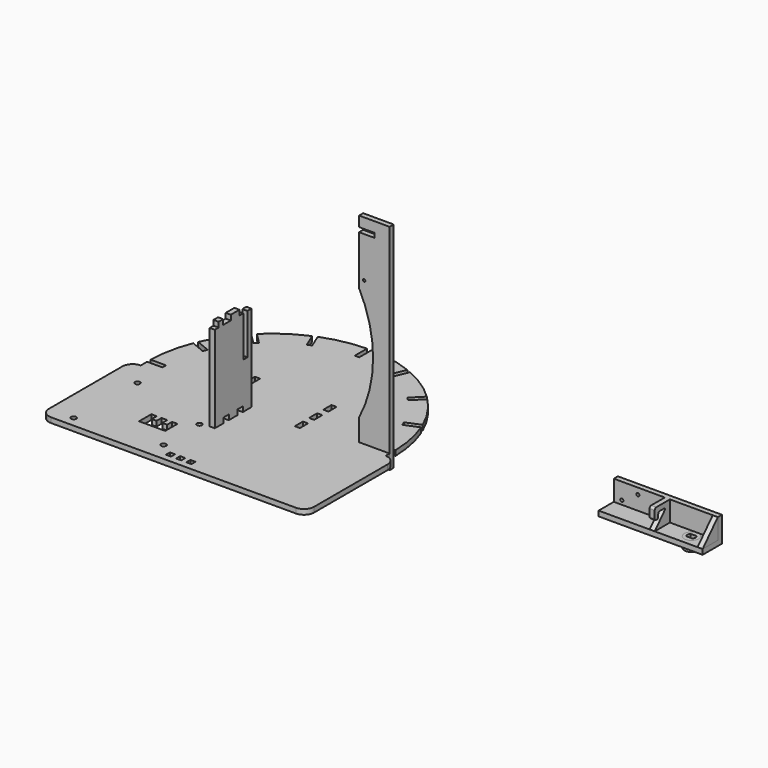
from build123d import *

# Parameters (mm, degrees)
F0_R      = 1.5875
F0_W      = 3.175
F0_H      = 3.175
F0_H_2    = 6.35
F1_DEPTH  = 3.175
F2_R      = 0.75
F3_DEPTH  = 3.175
F5_DEPTH  = 3.175
F6_R      = 4.5
F7_DEPTH  = 3.175
F6_W      = 64.77
F6_H      = 15
F8_DEPTH  = 3.175
F9_W      = 64.77
F9_H      = 3.175
F10_DEPTH = 12.7
F12_DEPTH = 3.175
F13_W     = 3.175
F13_H     = 11.825
F14_DEPTH = 12.7
F16_DEPTH = 7.6734
F17_R     = 1
F18_DEPTH = 12.7


with BuildPart() as f1:
    # F0 (on Top) → F1 (new body)
    with BuildSketch(Plane.XY):
        with BuildLine():
            Line((-66.675, -1.3890625), (-76.2, -1.3890625))
            Line((-76.2, -1.3890625), (-76.2, -6.35))
            ThreePointArc((-76.2, -6.35), (-80.6901280605, -8.2098719395), (-82.55, -12.7))
            Line((-82.55, -12.7), (-82.55, -69.85))
            ThreePointArc((-82.55, -69.85), (-80.6901280605, -74.3401280605), (-76.2, -76.2))
            Line((-76.2, -76.2), (76.1996992772, -76.2))
            ThreePointArc((76.1996992772, -76.2), (80.6898273377, -74.3401280605), (82.5496992772, -69.85))
            Line((82.5496992772, -69.85), (82.5496992772, -12.7))
            ThreePointArc((82.5496992772, -12.7), (80.6898273377, -8.2098719395), (76.1996992772, -6.35))
            Line((76.1996992772, -6.35), (76.1996992772, -1.3890625))
            Line((76.1996992772, -1.3890625), (66.6746992772, -1.3890625))
            Line((66.6746992772, -1.3890625), (66.6746992772, 1.3890625))
            Line((66.6746992772, 1.3890625), (76.1996992772, 1.3890625))
            ThreePointArc((76.1996992772, 1.3890625), (74.7479569797, 14.8683229884), (70.9309023054, 27.8770935923))
            Line((70.9309023054, 27.8770935923), (62.1309497582, 24.232033899))
            Line((62.1309497582, 24.232033899), (61.0678073477, 26.7986867252))
            Line((61.0678073477, 26.7986867252), (69.8677598948, 30.4437464185))
            ThreePointArc((69.8677598948, 30.4437464185), (63.3682352303, 42.3414015718), (54.8634955567, 52.8992148916))
            Line((54.8634955567, 52.8992148916), (48.1283034659, 46.1640228008))
            Line((48.1283034659, 46.1640228008), (46.1638724394, 48.1284538273))
            Line((46.1638724394, 48.1284538273), (52.8990645302, 54.8636459181))
            ThreePointArc((52.8990645302, 54.8636459181), (42.3412512104, 63.3683855917), (30.4435960571, 69.8679102563))
            Line((30.4435960571, 69.8679102563), (26.7985363638, 61.0679577091))
            Line((26.7985363638, 61.0679577091), (24.2318835376, 62.1311001196))
            Line((24.2318835376, 62.1311001196), (27.8769432309, 70.9310526668))
            ThreePointArc((27.8769432309, 70.9310526668), (14.868172627, 74.7481073412), (1.3889121386, 76.1998496386))
            Line((1.3889121386, 76.1998496386), (1.3889121386, 66.6748496386))
            Line((1.3889121386, 66.6748496386), (-1.3892128614, 66.6748496386))
            Line((-1.3892128614, 66.6748496386), (-1.3892128614, 76.1998496386))
            ThreePointArc((-1.3892128614, 76.1998496386), (-14.8684733498, 74.7481073412), (-27.8772439537, 70.9310526668))
            Line((-27.8772439537, 70.9310526668), (-24.2321842604, 62.1311001196))
            Line((-24.2321842604, 62.1311001196), (-26.7988370867, 61.0679577091))
            Line((-26.7988370867, 61.0679577091), (-30.4438967799, 69.8679102563))
            ThreePointArc((-30.4438967799, 69.8679102563), (-42.3415519333, 63.3683855917), (-52.899365253, 54.8636459181))
            Line((-52.899365253, 54.8636459181), (-46.1641731622, 48.1284538273))
            Line((-46.1641731622, 48.1284538273), (-48.1286041887, 46.1640228008))
            Line((-48.1286041887, 46.1640228008), (-54.8637962795, 52.8992148916))
            ThreePointArc((-54.8637962795, 52.8992148916), (-63.3685359532, 42.3414015718), (-69.8680606177, 30.4437464185))
            Line((-69.8680606177, 30.4437464185), (-61.0681080705, 26.7986867252))
            Line((-61.0681080705, 26.7986867252), (-62.131250481, 24.232033899))
            Line((-62.131250481, 24.232033899), (-70.9312030282, 27.8770935923))
            ThreePointArc((-70.9312030282, 27.8770935923), (-74.7482577026, 14.8683229884), (-76.2, 1.3890625))
            Line((-76.2, 1.3890625), (-66.675, 1.3890625))
            Line((-66.675, 1.3890625), (-66.675, -1.3890625))
        make_face()
        with Locations((-67.19062, -69.8373)):
            Circle(F0_R, mode=Mode.SUBTRACT)
        with Locations((-6.3501503614, -70.5358636141)):
            Rectangle(F0_W, F0_H, mode=Mode.SUBTRACT)
        with Locations((-15.24, -64.77)):
            Circle(F0_R, mode=Mode.SUBTRACT)
        Polygon((-40.1148100257, -52.7491793036), (-40.1148100257, -43.2241793036), (-36.7413725257, -43.2241793036), (-36.7413725257, -47.0771603286), (-33.7648100257, -47.0771603286), (-33.7648100257, -43.2241793036), (-30.1929350257, -43.2241793036), (-30.1929350257, -47.0771603286), (-27.2163725257, -47.0771603286), (-27.2163725257, -43.2241793036), (-23.8429350257, -43.2241793036), (-23.8429350257, -52.7491793036), align=None, mode=Mode.SUBTRACT)
        with Locations((-65.92316, -21.68906)):
            Circle(F0_R, mode=Mode.SUBTRACT)
        with Locations((-15.24, -36.8935)):
            Circle(F0_R, mode=Mode.SUBTRACT)
        with Locations((-23.8126503614, -6.35)):
            Rectangle(F0_W, F0_H_2, mode=Mode.SUBTRACT)
        with Locations((-0.0001503614, -70.5358636141)):
            Rectangle(F0_W, F0_H, mode=Mode.SUBTRACT)
        with Locations((6.3498496386, -70.5358636141)):
            Rectangle(F0_W, F0_H, mode=Mode.SUBTRACT)
        with Locations((23.8126503614, -6.35)):
            Rectangle(F0_W, F0_H_2, mode=Mode.SUBTRACT)
        with Locations((-23.8126503614, 4.7625)):
            Rectangle(F0_W, F0_H_2, mode=Mode.SUBTRACT)
        with Locations((-23.8126503614, 15.875)):
            Rectangle(F0_W, F0_H_2, mode=Mode.SUBTRACT)
        with Locations((23.8126503614, 4.7625)):
            Rectangle(F0_W, F0_H_2, mode=Mode.SUBTRACT)
        with Locations((23.8126503614, 15.875)):
            Rectangle(F0_W, F0_H_2, mode=Mode.SUBTRACT)
    extrude(amount=-F1_DEPTH)


with BuildPart() as f3:
    # F2 (on Front) → F3 (new body)
    with BuildSketch(Plane.XZ):
        with BuildLine():
            Line((76.1996992772, 124.221875), (57.1496992772, 124.221875))
            Line((57.1496992772, 124.221875), (57.1496992772, 117.871875))
            Line((57.1496992772, 117.871875), (66.6746992772, 117.871875))
            Line((66.6746992772, 117.871875), (66.6746992772, 115.09375))
            Line((66.6746992772, 115.09375), (57.1496992772, 115.09375))
            Line((57.1496992772, 115.09375), (57.1496992772, 84.4008699059))
            ThreePointArc((57.1496992772, 84.4008699059), (65.8830380412, 48.9792716689), (57.1496992772, 13.5576734319))
            Line((57.1496992772, 13.5576734319), (57.1496992772, 0))
            Line((57.1496992772, 0), (66.6746992772, 0))
            Line((66.6746992772, 0), (66.6746992772, -2.778125))
            Line((66.6746992772, -2.778125), (57.1496992772, -2.778125))
            Line((57.1496992772, -2.778125), (57.1496992772, -9.128125))
            Line((57.1496992772, -9.128125), (76.1996992772, -9.128125))
            Line((76.1996992772, -9.128125), (76.1996992772, 124.221875))
        make_face()
        with Locations((60.3246992772, 89.69375)):
            Circle(F2_R, mode=Mode.SUBTRACT)
    extrude(amount=F3_DEPTH)


with BuildPart() as f5:
    # F4 (on Right) → F5 (new body)
    with BuildSketch(Plane.YZ):
        Polygon((-41.2338857099, 8.2899676636), (-41.2338857099, 11.4649676636), (-37.0666982099, 11.4649676636), (-37.0666982099, 8.2899676636), (-30.3198232099, 8.2899676636), (-30.3198232099, 11.4649676636), (-26.1526357099, 11.4649676636), (-26.1526357099, 8.2899676636), (-19.4057607099, 8.2899676636), (-19.4057607099, 11.4649676636), (-19.4057607099, 62.2649676636), (-22.5807607099, 62.2649676636), (-22.5807607099, 36.8649676636), (-25.7557607099, 36.8649676636), (-25.7557607099, 62.2649676636), (-28.7323232099, 62.2649676636), (-28.7323232099, 65.4399676636), (-35.4791982099, 65.4399676636), (-35.4791982099, 62.2649676636), (-41.4323232099, 62.2649676636), (-41.4323232099, 65.4399676636), (-45.0041982099, 65.4399676636), (-45.0041982099, 62.2649676636), (-47.9807607099, 62.2649676636), (-47.9807607099, 11.4649676636), (-47.9807607099, 8.2899676636), align=None)
    extrude(amount=F5_DEPTH)


with BuildPart() as f7:
    # F6 (on Top) → F7 (new body, symmetric)
    with BuildSketch(Plane.XY):
        with Locations((248.9171881117, 15.76526057)):
            Circle(F6_R)
        with BuildLine():
            ThreePointArc((247.0390241146, 14.11526057), (246.4171881117, 15.76526057), (247.0390241146, 17.41526057))
            ThreePointArc((247.0390241146, 17.41526057), (248.9171881117, 18.26526057), (250.7953521088, 17.41526057))
            ThreePointArc((250.7953521088, 17.41526057), (251.2565694394, 16.646903924), (251.4171881117, 15.76526057))
            ThreePointArc((251.4171881117, 15.76526057), (251.2565694394, 14.883617216), (250.7953521088, 14.11526057))
            ThreePointArc((250.7953521088, 14.11526057), (248.9171881117, 13.26526057), (247.0390241146, 14.11526057))
        make_face(mode=Mode.SUBTRACT)
        with BuildLine():
            ThreePointArc((250.7953521088, 17.41526057), (248.9171881117, 18.26526057), (247.0390241146, 17.41526057))
            Line((247.0390241146, 17.41526057), (250.7953521088, 17.41526057))
        make_face()
        with BuildLine():
            Line((250.7953521088, 14.11526057), (247.0390241146, 14.11526057))
            ThreePointArc((247.0390241146, 14.11526057), (248.9171881117, 13.26526057), (250.7953521088, 14.11526057))
        make_face()
    extrude(amount=F7_DEPTH, both=True)


with BuildPart() as f8:
    # F6 (on Top) → F8 (new body)
    with BuildSketch(Plane.XY):
        with Locations((229.2321881117, 16.0838132292)):
            Rectangle(F6_W, F6_H)
        with Locations((248.9171881117, 15.76526057)):
            Circle(F6_R, mode=Mode.SUBTRACT)
    extrude(amount=F8_DEPTH)

    # F9 (on face) → F10 (join)
    with BuildSketch(Plane.XY.offset(3.175)):
        with Locations((229.2321881117, 21.9963132292)):
            Rectangle(F9_W, F9_H)
    extrude(amount=F10_DEPTH)

    # F13 (on face) → F14 (join)
    with BuildSketch(Plane.XY.offset(3.175)):
        with Locations((230.1846881117, 14.4963132292)):
            Rectangle(F13_W, F13_H)
    extrude(amount=F14_DEPTH)

    # F15 (on face) → F16 (cut)
    with BuildSketch(Plane.YZ.offset(231.7721881117)):
        with BuildLine():
            Line((8.5838132292, 3.175), (16.8410833387, 12.0432731832))
            Line((16.8410833387, 12.0432731832), (16.1357615143, 12.7))
            Line((16.1357615143, 12.7), (12.5539913137, 12.7))
            ThreePointArc((12.5539913137, 12.7), (11.6990500441, 12.3458717311), (11.3449217752, 11.4909304615))
            Line((11.3449217752, 11.4909304615), (11.3449217752, 10.0990695385))
            ThreePointArc((11.3449217752, 10.0990695385), (10.9907935063, 9.2441282689), (10.1358522367, 8.89))
            Line((10.1358522367, 8.89), (9.7928827677, 8.89))
            ThreePointArc((9.7928827677, 8.89), (8.9379414981, 9.2441282689), (8.5838132292, 10.0990695385))
            Line((8.5838132292, 10.0990695385), (8.5838132292, 3.175))
        make_face()
        with BuildLine():
            Line((8.5838132292, 15.875), (8.5838132292, 14.6659304615))
            ThreePointArc((8.5838132292, 14.6659304615), (8.9379414981, 15.5208717311), (9.7928827677, 15.875))
            Line((9.7928827677, 15.875), (8.5838132292, 15.875))
        make_face()
    extrude(amount=-F16_DEPTH, mode=Mode.SUBTRACT)

    # F17 (on face) → F18 (cut)
    with BuildSketch(Plane(origin=(0, 23.5838132292, 0), x_dir=(-1, 0, 0), z_dir=(0, 1, 0))):
        with Locations((-201.8471881117, 5.675)):
            Circle(F17_R)
        with Locations((-211.8471881117, 11.925)):
            Circle(F17_R)
    extrude(amount=-F18_DEPTH, mode=Mode.SUBTRACT)


with BuildPart() as f12:
    # F11 (on face) → F12 (new body)
    with BuildSketch(Plane.YZ.offset(261.6171881117)):
        Polygon((20.4088132292, 15.875), (8.5838132292, 3.175), (20.4088132292, 3.175), align=None)
    extrude(amount=-F12_DEPTH)


solid = Compound([f1.part, f3.part, f5.part, f7.part, f8.part, f12.part])
